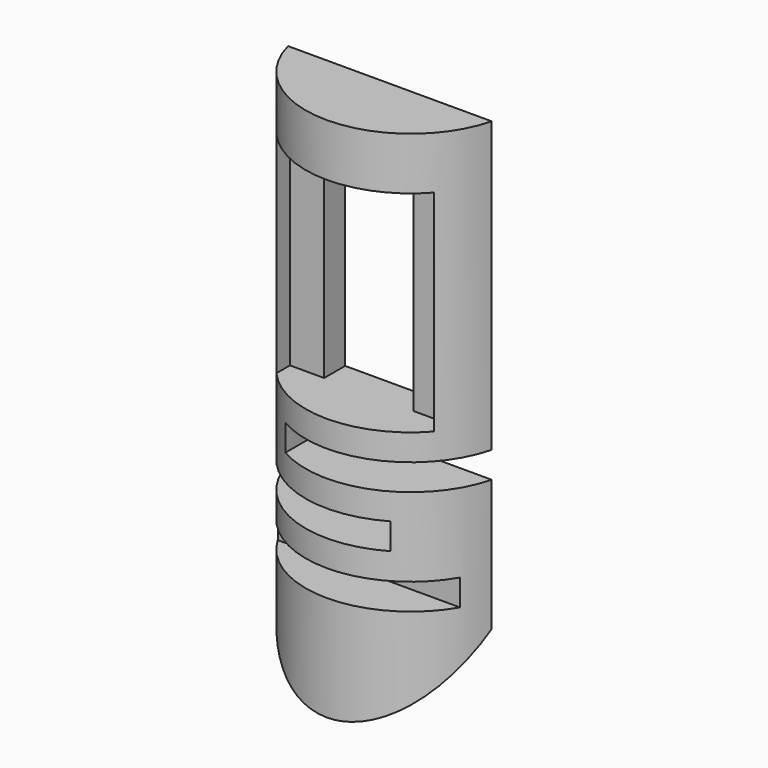
from build123d import *

# Parameters (mm, degrees)
BOX001_W               = 10
BOX001_H               = 10
BOX001_DEPTH           = 10
BOX001_PLACEMENT_ANGLE = 315
BOX004_W               = 10
BOX004_H               = 10
BOX004_DEPTH           = 0.5
BOX005_W               = 10
BOX005_H               = 10
BOX005_DEPTH           = 0.5
BOX006_W               = 10
BOX006_H               = 10
BOX006_DEPTH           = 0.5
BOX003_W               = 1.7
BOX003_H               = 10
BOX003_DEPTH           = 4
BOX002_W               = 3
BOX002_H               = 3
BOX002_DEPTH           = 4
BOX_W                  = 10
BOX_H                  = 10
BOX_DEPTH              = 10
CYLINDER_R             = 2
CYLINDER_DEPTH         = 10


with BuildPart() as angle_cutter:
    # Box001 → Box001 (new body)
    with BuildSketch(Plane.XY):
        with Locations((5, 5)):
            Rectangle(BOX001_W, BOX001_H)
    extrude(amount=BOX001_DEPTH)


with BuildPart() as angle_cutter_1:
    # Box001 placement: moved
    add(angle_cutter.part.moved(Location((-5, -7.5, -5.5))).rotate(Axis((-5, -7.5, -5.5), (1, 0, 0)), BOX001_PLACEMENT_ANGLE))


with BuildPart() as cube003:
    # Box004 → Box004 (new body)
    with BuildSketch(Plane(origin=(-1, -5, 4), x_dir=(1, 0, 0), z_dir=(0, 0, 1))):
        with Locations((5, 5)):
            Rectangle(BOX004_W, BOX004_H)
    extrude(amount=BOX004_DEPTH)


with BuildPart() as cube004:
    # Box005 → Box005 (new body)
    with BuildSketch(Plane(origin=(-9, -2, 3), x_dir=(1, 0, 0), z_dir=(0, 0, 1))):
        with Locations((5, 5)):
            Rectangle(BOX005_W, BOX005_H)
    extrude(amount=BOX005_DEPTH)


with BuildPart() as fusion001:
    # Box006 → Box006 (new body)
    with BuildSketch(Plane(origin=(-5, -11, 2), x_dir=(1, 0, 0), z_dir=(0, 0, 1))):
        with Locations((5, 5)):
            Rectangle(BOX006_W, BOX006_H)
    extrude(amount=BOX006_DEPTH)

    # Fusion001: union Cube003, Cube004
    add(cube003.part)
    add(cube004.part)


with BuildPart() as cube002:
    # Box003 → Box003 (new body)
    with BuildSketch(Plane(origin=(-0.85, -4, 4), x_dir=(1, 0, 0), z_dir=(0, 0, 1))):
        with Locations((0.85, 5)):
            Rectangle(BOX003_W, BOX003_H)
    extrude(amount=BOX003_DEPTH)


with BuildPart() as fusion:
    # Box002 → Box002 (new body)
    with BuildSketch(Plane(origin=(-1.5, -4, 4), x_dir=(1, 0, 0), z_dir=(0, 0, 1))):
        with Locations((1.5, 1.5)):
            Rectangle(BOX002_W, BOX002_H)
    extrude(amount=BOX002_DEPTH)

    # Fusion: union Cube002
    add(cube002.part)


with BuildPart() as fusion_1:
    # Fusion placement: moved
    add(fusion.part.moved(Location((0, 0, 1))))


with BuildPart() as cube:
    # Box → Box (new body)
    with BuildSketch(Plane(origin=(-5, -0.5, 0), x_dir=(1, 0, 0), z_dir=(0, 0, 1))):
        with Locations((5, 5)):
            Rectangle(BOX_W, BOX_H)
    extrude(amount=BOX_DEPTH)


with BuildPart() as cut003:
    # Cylinder → Cylinder (new body)
    with BuildSketch(Plane.XY):
        Circle(CYLINDER_R)
    extrude(amount=CYLINDER_DEPTH)

    # Cut: cut Cube
    add(cube.part, mode=Mode.SUBTRACT)

    # Cut001: cut Fusion
    add(fusion_1.part, mode=Mode.SUBTRACT)

    # Cut002: cut Fusion001
    add(fusion001.part, mode=Mode.SUBTRACT)

    # Cut003: cut Angle Cutter
    add(angle_cutter_1.part, mode=Mode.SUBTRACT)


solid = cut003.part
